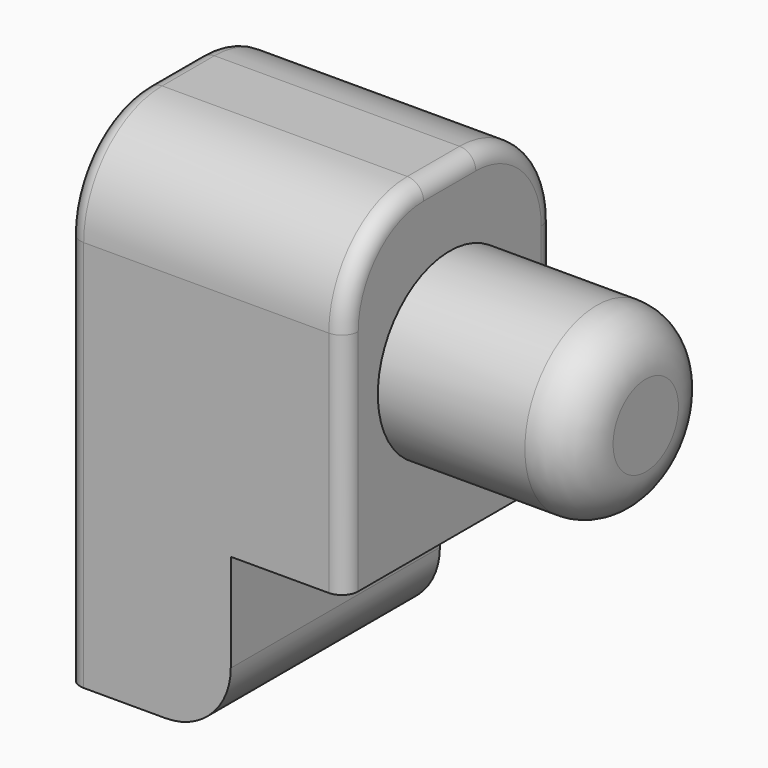
from build123d import *

# Parameters (mm, degrees)
F1_DEPTH = 8
F2_R     = 2.75
F3_DEPTH = 6
F4_R     = 1.5
F5_R     = 3
F6_R     = 0.5


with BuildPart() as f1:
    # F0 (on Front) → F1 (new body)
    with BuildSketch(Plane.XZ):
        with BuildLine():
            Line((4.9994771853, 12.180397345), (-3.5005228147, 12.180397345))
            Line((-3.5005228147, 12.180397345), (-3.5005228147, -2.819602655))
            Line((-3.5005228147, -2.819602655), (-0.5005228147, -2.819602655))
            ThreePointArc((-0.5005228147, -2.819602655), (0.9136907477, -2.2338162174), (1.4994771853, -0.819602655))
            Line((1.4994771853, -0.819602655), (1.4994771853, 2.180397345))
            Line((1.4994771853, 2.180397345), (4.9994771853, 2.180397345))
            Line((4.9994771853, 2.180397345), (4.9994771853, 12.180397345))
        make_face()
    extrude(amount=F1_DEPTH)

    # F2 (on face) → F3 (join)
    with BuildSketch(Plane.YZ.offset(4.9994771853)):
        with Locations((-4, 7.180397345)):
            Circle(F2_R)
    extrude(amount=F3_DEPTH)

    # F4
    f4_edges = [f1.edges().sort_by_distance(p)[0] for p in [
        (10.999477, -6.75, 7.180397),
    ]]
    fillet(f4_edges, radius=F4_R)

    # F5
    f5_edges = [f1.edges().sort_by_distance(p)[0] for p in [
        (0.749477, 0, 12.180397),
        (0.749477, -8, 12.180397),
    ]]
    fillet(f5_edges, radius=F5_R)

    # F6
    f6_edges = [f1.edges().sort_by_distance(p)[0] for p in [
        (4.999477, -8, 5.680397),
        (4.999477, -7.12132, 11.301718),
        (4.999477, -4, 12.180397),
        (4.999477, -0.87868, 11.301718),
        (4.999477, 0, 5.680397),
        (-3.500523, -8, 3.180397),
        (-3.500523, -7.12132, 11.301718),
    ]]
    fillet(f6_edges, radius=F6_R)


solid = f1.part
